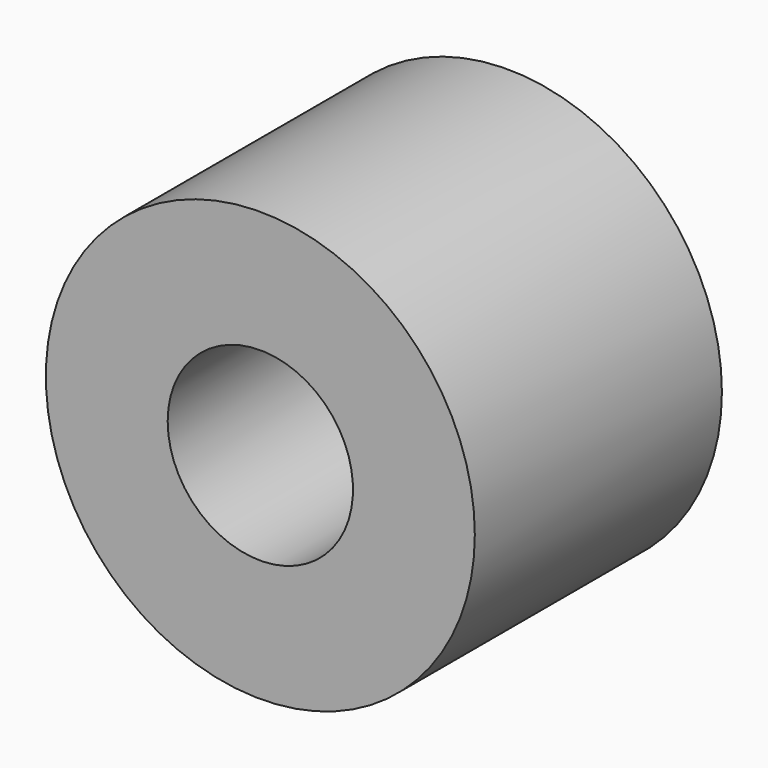
from build123d import *

# Parameters (mm, degrees)
F0_R     = 4.409712
F1_DEPTH = 6.35
F2_D     = 3.81


with BuildPart() as f1:
    # F0 (on Front) → F1 (new body)
    with BuildSketch(Plane.XZ):
        with Locations((-16.214648, 58.415372)):
            Circle(F0_R)
    extrude(amount=-F1_DEPTH)

    # F2 (through all)
    with Locations(Plane.XZ):
        with Locations((-16.214648, 58.415372)):
            Hole(F2_D / 2)


solid = f1.part
